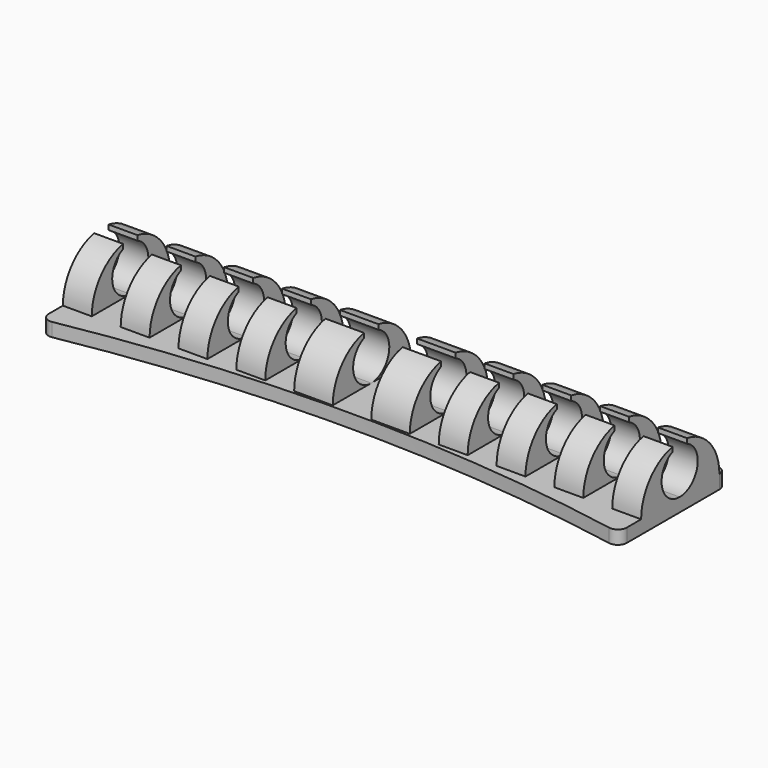
from build123d import *

# Parameters (mm, degrees)
F1_DEPTH = 1.5
F2_R     = 1
F4_DEPTH = 64
F5_W     = 4.266666
F5_H     = 13.671578
F5_W_2   = 3.2
F6_DEPTH = 7.7216


with BuildPart() as f1:
    # F0 (on Top) → F1 (new body)
    with BuildSketch(Plane.XY):
        with BuildLine():
            Line((32, 7.5), (-32, 7.5))
            Line((-32, 7.5), (-32, -7.5))
            ThreePointArc((-32, -7.5), (0, -4.5), (32, -7.5))
            Line((32, -7.5), (32, 7.5))
        make_face()
    extrude(amount=F1_DEPTH)

    # F2
    f2_edges = [f1.edges().sort_by_distance(p)[0] for p in [
        (32, 7.5, 0.75),
        (32, -7.5, 0.75),
        (-32, -7.5, 0.75),
        (-32, 7.5, 0.75),
    ]]
    fillet(f2_edges, radius=F2_R)

    # F3 (on face) → F4 (join)
    with BuildSketch(Plane.YZ.offset(32)):
        with BuildLine():
            ThreePointArc((1, 1.5), (-1.447266, 3.489226), (0, 6.291288))
            Line((0, 6.291288), (0, 6.803734))
            ThreePointArc((0, 6.803734), (-3.108438, 4.922642), (-4.327623, 1.5))
            Line((-4.327623, 1.5), (1, 1.5))
        make_face()
        with BuildLine():
            ThreePointArc((2, 6.291288), (3.447266, 3.489226), (1, 1.5))
            Line((1, 1.5), (6.5, 1.5))
            ThreePointArc((6.5, 1.5), (5.224821, 4.990141), (2, 6.836136))
            Line((2, 6.836136), (2, 6.291288))
        make_face()
    extrude(amount=-F4_DEPTH)

    # F5 (on face) → F6 (cut)
    with BuildSketch(Plane.XY.offset(1.5)):
        with Locations((0, 2.508166)):
            Rectangle(F5_W, F5_H)
        with Locations((-8, 2.508166)):
            Rectangle(F5_W_2, F5_H)
        with Locations((-14.4, 2.508166)):
            Rectangle(F5_W_2, F5_H)
        with Locations((-20.8, 2.508166)):
            Rectangle(F5_W_2, F5_H)
        with Locations((-27.2, 2.508166)):
            Rectangle(F5_W_2, F5_H)
        with Locations((8, 2.508166)):
            Rectangle(F5_W_2, F5_H)
        with Locations((14.4, 2.508166)):
            Rectangle(F5_W_2, F5_H)
        with Locations((20.8, 2.508166)):
            Rectangle(F5_W_2, F5_H)
        with Locations((27.2, 2.508166)):
            Rectangle(F5_W_2, F5_H)
    extrude(amount=F6_DEPTH, mode=Mode.SUBTRACT)


solid = f1.part
